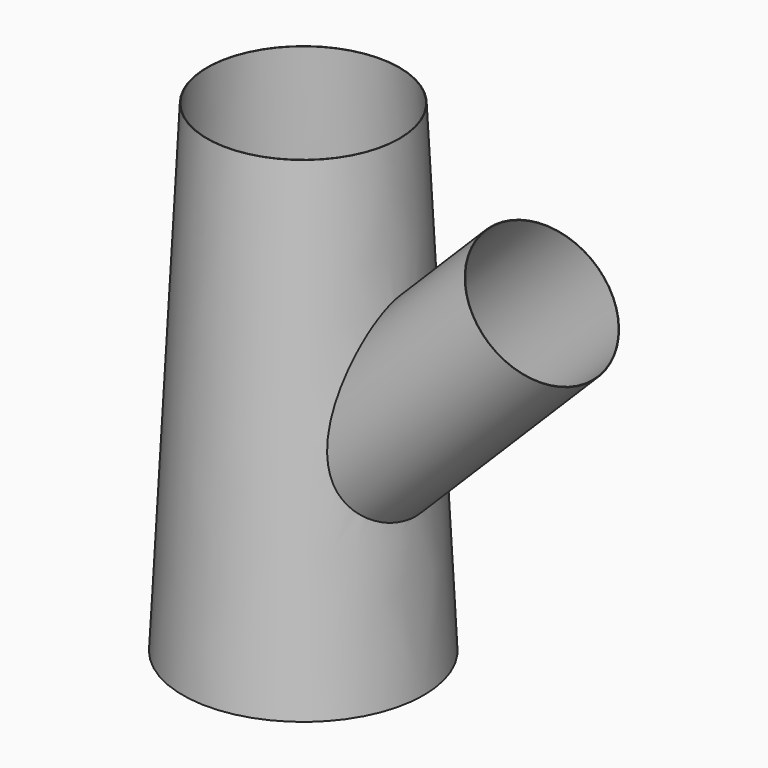
from build123d import *

# Parameters (mm, degrees)
F5_R      = 101.6
F4_R      = 127
F7_R      = 76.2
F8_DEPTH  = 304.8
F9_R      = 75.7174
F10_DEPTH = 304.8
F11_R     = 126.5174
F12_R     = 101.1174


with BuildPart() as f6:
    # F5 (on face) → F6 section 0
    with BuildSketch(Plane(origin=(0, 0, 508), x_dir=(1, 0, 0), z_dir=(0, 0, -1))):
        Circle(F5_R)
    # F4 (on face) → F6 section 1
    with BuildSketch(Plane.XY):
        Circle(F4_R)
    loft()

    # F7 (on face) → F8 (join)
    with BuildSketch(Plane(origin=(327.647171, 0, 327.647171), x_dir=(0.707107, 0, -0.707107), z_dir=(0.707107, 0, 0.707107))):
        with Locations((-107.763073, 0)):
            Circle(F7_R)
    extrude(amount=-F8_DEPTH)

    # F9 (on face) → F10 (cut)
    with BuildSketch(Plane(origin=(327.647171, 0, 327.647171), x_dir=(0.707107, 0, -0.707107), z_dir=(0.707107, 0, 0.707107))):
        with Locations((-107.763073, 0)):
            Circle(F9_R)
    extrude(amount=-F10_DEPTH, mode=Mode.SUBTRACT)

    # F11 (on face) → F13 section 0
    with BuildSketch(Plane(origin=(0, 0, 0), x_dir=(1, 0, 0), z_dir=(0, 0, -1))):
        Circle(F11_R)
    # F12 (on face) → F13 section 1
    with BuildSketch(Plane.XY.offset(508)):
        Circle(F12_R)
    loft(mode=Mode.SUBTRACT)


solid = f6.part
